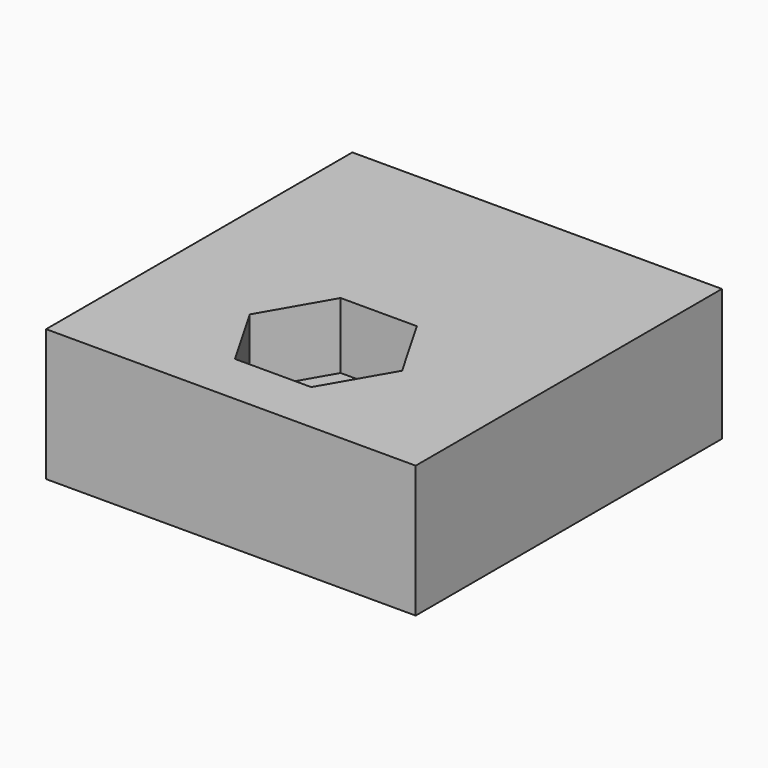
from build123d import *

# Parameters (mm, degrees)
REVOLUTION_ANGLE = -180
PAD011_DEPTH     = 10
POCKET002_DEPTH  = 5
SKETCH020_R      = 3
POCKET003_DEPTH  = 5


with BuildPart() as part:
    # Sketch017 → Revolution (revolve)
    with BuildSketch(Plane.XZ):
        Polygon((14, 0), (6, 3), (6, 5), (0, 5), (0, 6), (14, 6), align=None)
    revolve(axis=Axis((0, 0, 0), (0, 0, 1)), revolution_arc=REVOLUTION_ANGLE)

    # Sketch018 (on Face4 of Revolution) → Pad011 (new body)
    with BuildSketch(Plane(origin=(0, 0, 6), x_dir=(-1, 0, 0), z_dir=(0, 0, 1))):
        with BuildLine():
            Line((14, 0), (14, 29))
            Line((14, 29), (-14, 29))
            Line((-14, 29), (-14, 0))
            ThreePointArc((14, 0), (0, 14), (-14, 0))
        make_face()
    extrude(amount=-PAD011_DEPTH)

    # Sketch019 (on Face12 of Pad011) → Pocket002 (cut)
    with BuildSketch(Plane(origin=(0, 0, 6), x_dir=(-1, 0, 0), z_dir=(0, 0, 1))):
        Polygon((5.773503, 20), (2.886751, 25), (-2.886751, 25), (-5.773503, 20), (-2.886751, 15), (2.886751, 15), align=None)
    extrude(amount=-POCKET002_DEPTH, mode=Mode.SUBTRACT)

    # Sketch020 (on Face19 of Pocket002) → Pocket003 (cut)
    with BuildSketch(Plane(origin=(0, 0, 1), x_dir=(-1, 0, 0), z_dir=(0, 0, 1))):
        with Locations((0, 20)):
            Circle(SKETCH020_R)
    extrude(amount=-POCKET003_DEPTH, mode=Mode.SUBTRACT)


solid = part.part
